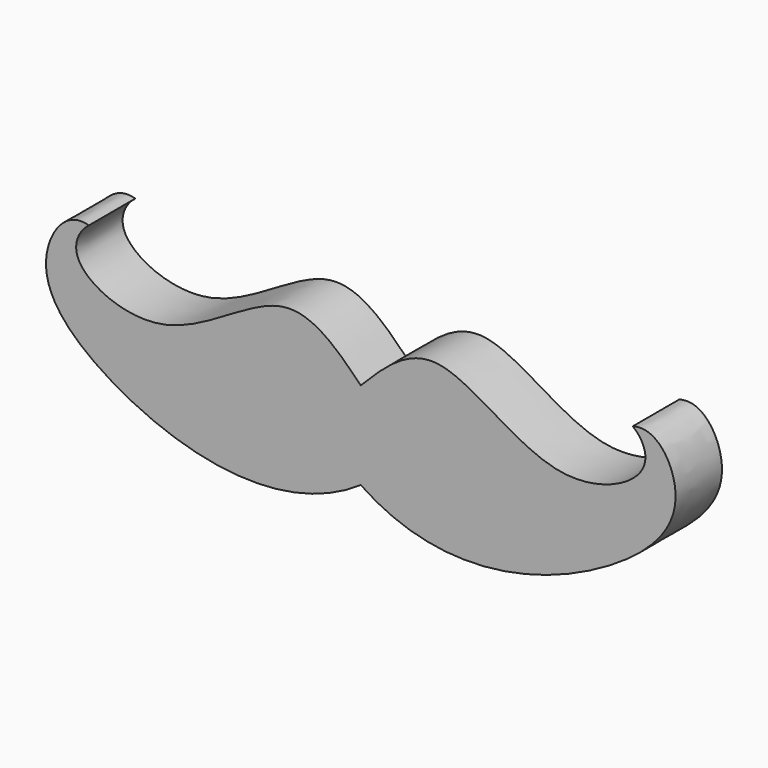
from build123d import *

# Parameters (mm, degrees)
F1_DEPTH = 12.7


with BuildPart() as f1:
    # F0 (on Front) → F1 (new body)
    with BuildSketch(Plane.XZ):
        with BuildLine():
            add(Edge.make_bspline(
                [(0, 0), (5.2922946096, 5.4399850005), (16.8402442204, 16.4669983038), (41.5200023897, -8.48932641), (65.2255245484, 2.5166530372), (61.6478041507, 9.8603481209), (59.5228970051, 11.4749073982)],
                knots=[0, 0, 0, 0, 0.2588489693, 0.5798080105, 0.8389465825, 1, 1, 1, 1], degree=3))
            add(Edge.make_bspline(
                [(0, 0), (-5.2922946096, 5.4399850005), (-16.8402442204, 16.4669983038), (-41.5200023897, -8.48932641), (-65.2255245484, 2.5166530372), (-61.6478041507, 9.8603481209), (-59.5228970051, 11.4749073982)],
                knots=[0, 0, 0, 0, 0.2588489693, 0.5798080105, 0.8389465825, 1, 1, 1, 1], degree=3))
            add(Edge.make_bspline(
                [(0, -19.2053038627), (-19.2887499324, -32.2868970474), (-57.1563952175, -19.9206143317), (-73.1645455306, 0.1926092325), (-64.6163892516, 12.9973438846), (-59.5228970051, 11.4749073982)],
                knots=[0, 0, 0, 0, 0.4740420539, 0.7714439659, 1, 1, 1, 1], degree=3))
            add(Edge.make_bspline(
                [(0, -19.2053038627), (19.2887499324, -32.2868970474), (57.1563952175, -19.9206143317), (73.1645455306, 0.1926092325), (64.6163892516, 12.9973438846), (59.5228970051, 11.4749073982)],
                knots=[0, 0, 0, 0, 0.4740420539, 0.7714439659, 1, 1, 1, 1], degree=3))
        make_face()
    extrude(amount=F1_DEPTH)


solid = f1.part
